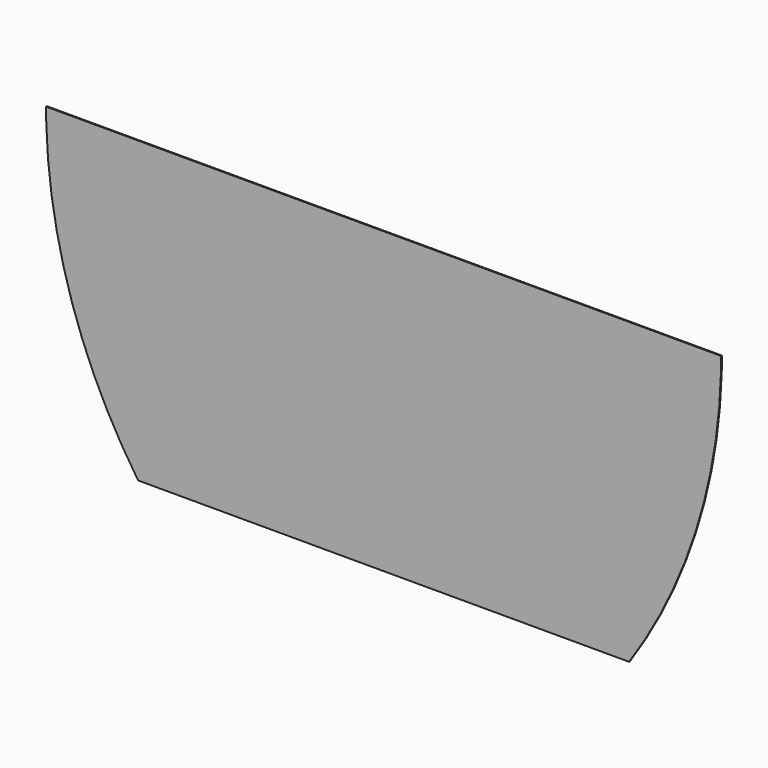
from build123d import *

# Parameters (mm, degrees)
F0_W     = 100
F0_H     = 50
F0_W_2   = 600
F0_W_3   = 50
F0_W_4   = 775
F1_DEPTH = 3


with BuildPart() as f1:
    # F0 (on Front) → F1 (new body)
    with BuildSketch(Plane.XZ):
        with BuildLine():
            Line((-800, 92.0008493777), (-800, 0))
            Line((-800, 0), (-750, 0))
            Line((-750, 0), (-750, 50))
            Line((-750, 50), (-773.2805475772, 50))
            ThreePointArc((-773.2805475772, 50), (-786.7954423389, 70.9017119543), (-800.0000000001, 92.0008493776))
        make_face()
        with Locations((-700, 25)):
            Rectangle(F0_W, F0_H)
        with Locations((-350, 25)):
            Rectangle(F0_W_2, F0_H)
        with Locations((-25, 25)):
            Rectangle(F0_W_3, F0_H)
        with Locations((25, 25)):
            Rectangle(F0_W_3, F0_H)
        with Locations((350, 25)):
            Rectangle(F0_W_2, F0_H)
        with Locations((700, 25)):
            Rectangle(F0_W, F0_H)
        with BuildLine():
            Line((750, 0), (800, 0))
            Line((800, 0), (800, 92.0008493776))
            ThreePointArc((800.0000000001, 92.0008493776), (786.7954423389, 70.9017119543), (773.2805475772, 50))
            Line((773.2805475772, 50), (750, 50))
            Line((750, 50), (750, 0))
        make_face()
        with BuildLine():
            Line((-1049.2577214167, 925), (-1099.279129469, 925))
            ThreePointArc((-1099.279129469, 925), (-1015.7790507756, 441.1008996693), (-800, 0))
            Line((-800, 0), (-800, 92.0008493777))
            ThreePointArc((-800.0000000001, 92.0008493776), (-979.3055551093, 492.139557753), (-1049.2577214167, 925))
        make_face()
        with BuildLine():
            ThreePointArc((800, 0), (1015.7790507756, 441.1008996693), (1099.279129469, 925))
            Line((1099.279129469, 925), (1049.2577214167, 925))
            ThreePointArc((1049.2577214167, 925), (979.3055551094, 492.139557753), (800.0000000001, 92.0008493776))
            Line((800, 92.0008493776), (800, 0))
        make_face()
        with BuildLine():
            ThreePointArc((1099.279129469, 925), (1099.8197730031, 949.9974018634), (1100, 975))
            Line((1100, 975), (1050, 975))
            ThreePointArc((1050, 975), (1049.8144201308, 949.9972452643), (1049.2577214167, 925))
            Line((1049.2577214167, 925), (1099.279129469, 925))
        make_face()
        with BuildLine():
            Line((-1050, 975), (-1100, 975))
            ThreePointArc((-1100, 975), (-1099.8197730031, 949.9974018634), (-1099.279129469, 925))
            Line((-1099.279129469, 925), (-1049.2577214167, 925))
            ThreePointArc((-1049.2577214167, 925), (-1049.8144201308, 949.9972452643), (-1050, 975))
        make_face()
        with BuildLine():
            Line((-800, 925), (-1049.2577214167, 925))
            ThreePointArc((-1049.2577214167, 925), (-979.3055551093, 492.139557753), (-800.0000000001, 92.0008493776))
            Line((-800, 92.0008493777), (-800, 925))
        make_face()
        with BuildLine():
            Line((-25, 925), (-800, 925))
            Line((-800, 925), (-800, 92.0008493777))
            ThreePointArc((-800.0000000001, 92.0008493776), (-786.7954423389, 70.9017119543), (-773.2805475772, 50))
            Line((-773.2805475772, 50), (-750, 50))
            Line((-750, 50), (-650, 50))
            Line((-650, 50), (-50, 50))
            Line((-50, 50), (0, 50))
            Line((0, 50), (50, 50))
            Line((50, 50), (650, 50))
            Line((650, 50), (750, 50))
            Line((750, 50), (773.2805475772, 50))
            ThreePointArc((773.2805475772, 50), (786.7954423389, 70.9017119543), (800.0000000001, 92.0008493776))
            Line((800, 92.0008493776), (800, 925))
            Line((800, 925), (25, 925))
            Line((25, 925), (-25, 925))
        make_face()
        with BuildLine():
            ThreePointArc((800.0000000001, 92.0008493776), (979.3055551094, 492.139557753), (1049.2577214167, 925))
            Line((1049.2577214167, 925), (800, 925))
            Line((800, 925), (800, 92.0008493776))
        make_face()
        with BuildLine():
            ThreePointArc((1049.2577214167, 925), (1049.8144201308, 949.9972452643), (1050, 975))
            Line((1050, 975), (800, 975))
            Line((800, 975), (800, 925))
            Line((800, 925), (1049.2577214167, 925))
        make_face()
        with Locations((412.5, 950)):
            Rectangle(F0_W_4, F0_H)
        Polygon((25, 975), (0, 975), (-25, 975), (-25, 925), (25, 925), align=None)
        with Locations((-412.5, 950)):
            Rectangle(F0_W_4, F0_H)
        with BuildLine():
            Line((-800, 975), (-1050, 975))
            ThreePointArc((-1050, 975), (-1049.8144201308, 949.9972452643), (-1049.2577214167, 925))
            Line((-1049.2577214167, 925), (-800, 925))
            Line((-800, 925), (-800, 975))
        make_face()
    extrude(amount=F1_DEPTH)


solid = f1.part
